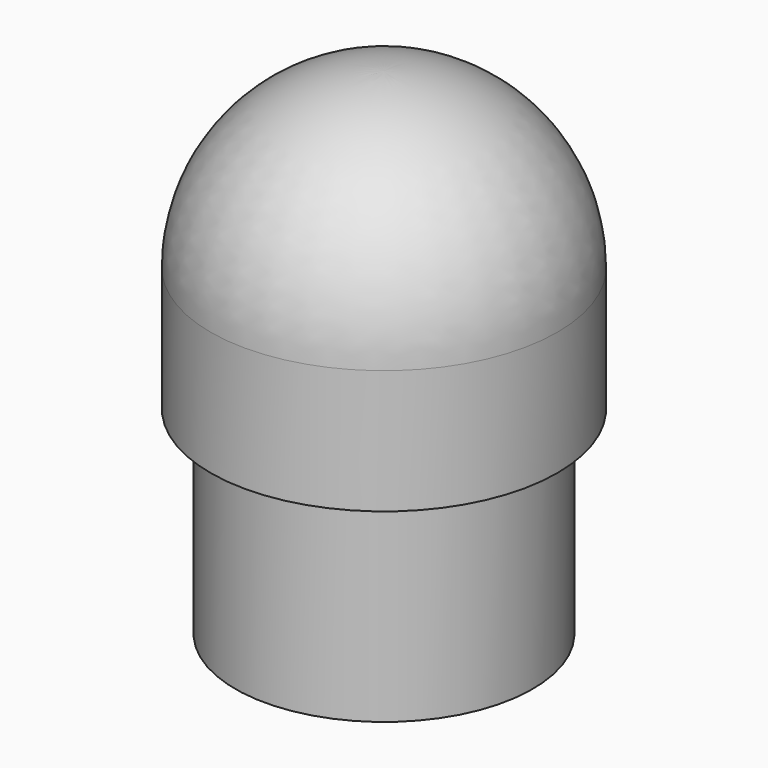
from build123d import *

# Parameters (mm, degrees)
F0_W = 15
F0_H = 20


with BuildPart() as f1:
    # F0 (on Right) → F1 (revolve)
    with BuildSketch(Plane.YZ):
        with BuildLine():
            Line((0, 30), (0, 12.5))
            Line((0, 12.5), (17.5, 12.5))
            ThreePointArc((17.5, 12.5), (12.374369, 24.874369), (0, 30))
        make_face()
        Polygon((0, 12.5), (0, 0), (15, 0), (17.5, 0), (17.5, 12.5), align=None)
        with Locations((7.5, -10)):
            Rectangle(F0_W, F0_H)
    revolve(axis=Axis((0, 0, 5), (0, 0, 1)))


solid = f1.part
